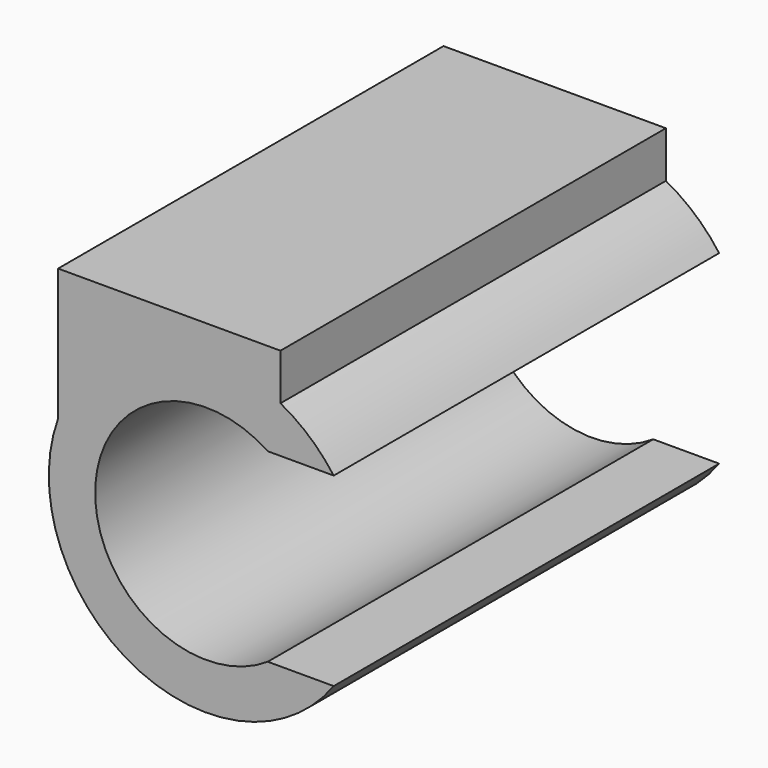
from build123d import *

# Parameters (mm, degrees)
F1_DEPTH  = 73.66
F3_DEPTH  = 73.66
F4_W      = 25.4
F4_H      = 6.349999
F4_H_2    = 6.35
F5_DEPTH  = 69.85
F6_W      = 12.7
F6_H      = 63.5
F7_DEPTH  = 63.5
F8_W      = 25.4
F8_H      = 82.55
F9_DEPTH  = 57.15
F10_W     = 25.4
F10_H     = 6.349999
F11_DEPTH = 69.851


with BuildPart() as f1:
    # F0 (on Front) → F1 (new body)
    with BuildSketch(Plane.XZ):
        with BuildLine():
            ThreePointArc((2.106057, -3.175), (-3.81, 0), (2.106057, 3.175))
            Line((2.106057, 3.175), (4.364903, 3.175))
            ThreePointArc((4.364903, 3.175), (-5.3975, 0), (4.364903, -3.175))
            Line((4.364903, -3.175), (2.106057, -3.175))
        make_face()
    extrude(amount=F1_DEPTH)

    # F2 (on face) → F3 (join, through all)
    with BuildSketch(Plane.XZ.offset(73.66)):
        with BuildLine():
            Line((-5.08, 6.35), (-5.08, 1.823899))
            ThreePointArc((-5.08, 1.823899), (-1.942098, 5.035997), (2.54, 4.7625))
            Line((2.54, 4.7625), (2.54, 6.35))
            Line((2.54, 6.35), (-5.08, 6.35))
        make_face()
    extrude(amount=-F3_DEPTH)

    # F4 (on face) → F5 (join)
    with BuildSketch(Plane.XY.offset(6.35)):
        with Locations((-1.27, -65.405)):
            Rectangle(F4_W, F4_H)
        with Locations((-1.27, -8.255)):
            Rectangle(F4_W, F4_H_2)
    extrude(amount=F5_DEPTH)

    # F6 (on face) → F7 (cut, through all)
    with BuildSketch(Plane.XZ.offset(68.58)):
        with Locations((-1.27, 44.45)):
            Rectangle(F6_W, F6_H)
    extrude(amount=-F7_DEPTH, mode=Mode.SUBTRACT)

    # F8 (on face) → F9 (cut)
    with BuildSketch(Plane(origin=(0, 0, 0), x_dir=(-1, 0, 0), z_dir=(0, 1, 0))):
        with Locations((1.27, 34.925)):
            Rectangle(F8_W, F8_H)
    extrude(amount=-F9_DEPTH, mode=Mode.SUBTRACT)

    # F10 (on face) → F11 (cut, through all)
    with BuildSketch(Plane(origin=(0, 0, 6.35), x_dir=(1, 0, 0), z_dir=(0, 0, -1))):
        with Locations((-1.27, 65.405)):
            Rectangle(F10_W, F10_H)
    extrude(amount=-F11_DEPTH, mode=Mode.SUBTRACT)


solid = f1.part
